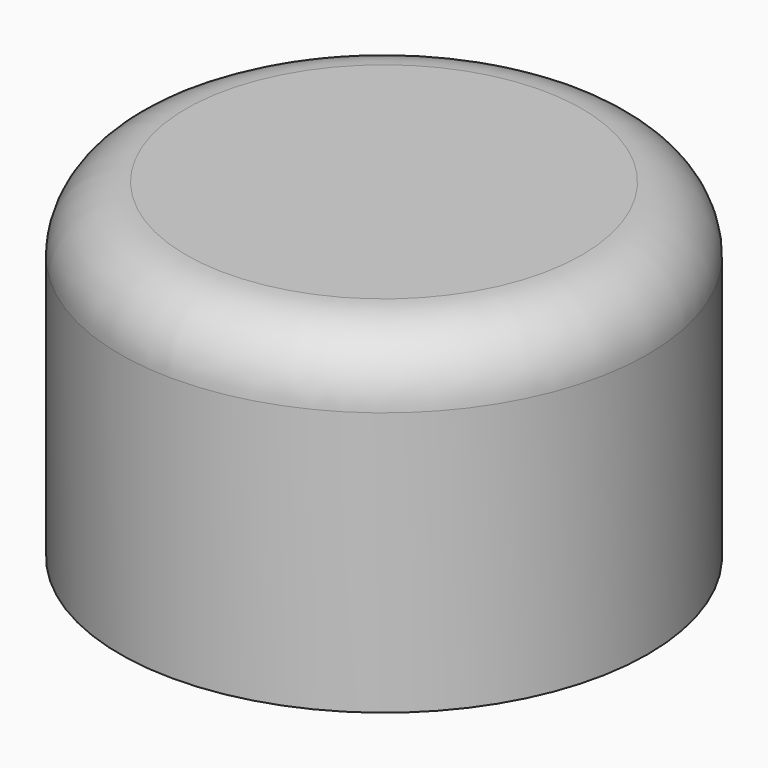
from build123d import *

# Parameters (mm, degrees)
F0_R     = 4
F1_DEPTH = 5
F2_R     = 1
F3_R     = 2.25
F4_DEPTH = 3


with BuildPart() as f1:
    # F0 (on Top) → F1 (new body)
    with BuildSketch(Plane.XY):
        Circle(F0_R)
    extrude(amount=F1_DEPTH)

    # F2
    f2_edges = [f1.edges().sort_by_distance(p)[0] for p in [
        (-4, 0, 5),
    ]]
    fillet(f2_edges, radius=F2_R)

    # F3 (on face) → F4 (cut)
    with BuildSketch(Plane(origin=(0, 0, 0), x_dir=(1, 0, 0), z_dir=(0, 0, -1))):
        Circle(F3_R)
    extrude(amount=-F4_DEPTH, mode=Mode.SUBTRACT)


solid = f1.part
